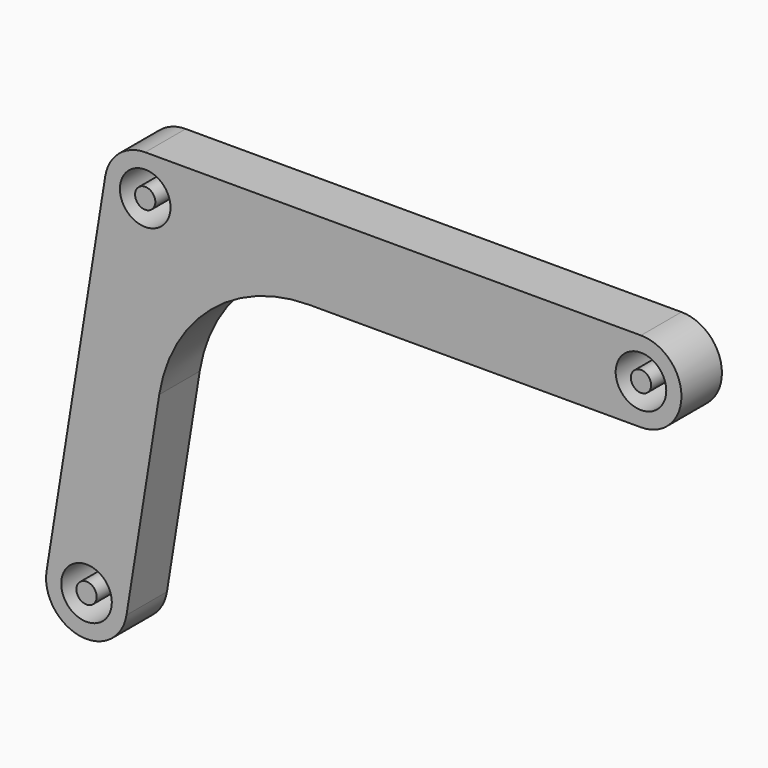
from build123d import *

# Parameters (mm, degrees)
F0_R     = 2.5
F1_DEPTH = 5
F2_R     = 1
F3_DEPTH = 5


with BuildPart() as f1:
    # F0 (on Front) → F1 (new body)
    with BuildSketch(Plane.XZ):
        with BuildLine():
            Line((49, 4), (0, 4))
            ThreePointArc((0, 4), (-2.59533, 3.043725), (-3.949735, 0.632132))
            Line((-3.949735, 0.632132), (-9.749735, -35.607868))
            ThreePointArc((-9.749735, -35.607868), (-6.432132, -40.189735), (-1.850265, -36.872132))
            Line((-1.850265, -36.872132), (1.389449, -16.629505))
            ThreePointArc((1.389449, -16.629505), (6.468471, -7.58603), (16.200957, -4))
            Line((16.200957, -4), (49, -4))
            ThreePointArc((49, -4), (53, 0), (49, 4))
        make_face()
        with Locations((-5.8, -36.24)):
            Circle(F0_R, mode=Mode.SUBTRACT)
        Circle(F0_R, mode=Mode.SUBTRACT)
        with Locations((49, 0)):
            Circle(F0_R, mode=Mode.SUBTRACT)
    extrude(amount=F1_DEPTH)


with BuildPart() as f3:
    # F2 (on face) → F3 (new body)
    with BuildSketch(Plane.XZ.offset(5)):
        with Locations((-5.8, -36.24)):
            Circle(F2_R)
        Circle(F2_R)
        with Locations((49, 0)):
            Circle(F2_R)
    extrude(amount=-F3_DEPTH)


solid = Compound([f1.part, f3.part])
